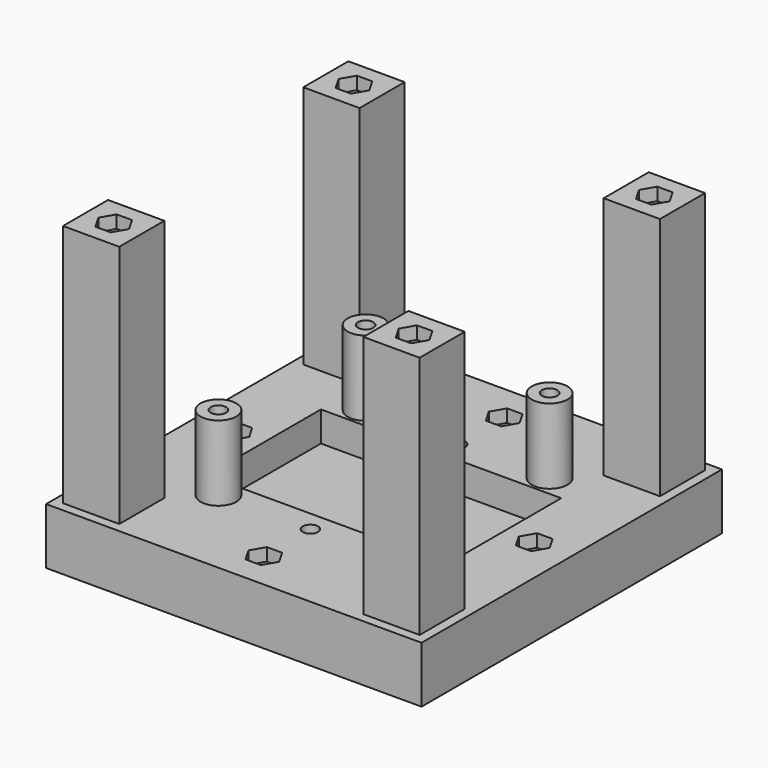
from build123d import *

# Parameters (mm, degrees)
F0_W     = 100
F0_H     = 100
F0_W_2   = 15
F0_H_2   = 15
F0_R     = 4.7625
F0_R_2   = 3.55
F0_W_3   = 64
F0_H_3   = 38
F1_DEPTH = 15
F2_DEPTH = 80
F0_R_3   = 2.05
F3_DEPTH = 76.6
F4_DEPTH = 7
F5_DEPTH = 11.6
F6_DEPTH = 35
F7_START = 4.2
F7_DEPTH = 30.8
F8_START = 4.2
F8_DEPTH = 10.8
F9_DEPTH = 60


with BuildPart() as f1:
    # F0 (on Top) → F1 (new body)
    with BuildSketch(Plane.XY):
        with Locations((-0.0015218393, -0.0144693477)):
            Rectangle(F0_W, F0_H)
        with Locations((-40.0015218393, -40.0144693477)):
            Rectangle(F0_W_2, F0_H_2, mode=Mode.SUBTRACT)
        with Locations((-24.5015218393, -24.5144693477)):
            Circle(F0_R, mode=Mode.SUBTRACT)
        Polygon((4.097665072, -40.0144693477), (2.0480716163, -43.5644693477), (-2.0511152949, -43.5644693477), (-4.1007087505, -40.0144693477), (-2.0511152949, -36.4644693477), (2.0480716163, -36.4644693477), align=None, mode=Mode.SUBTRACT)
        with Locations((39.9984781607, -40.0144693477)):
            Rectangle(F0_W_2, F0_H_2, mode=Mode.SUBTRACT)
        with Locations((-0.0015218393, -24.5144693477)):
            Circle(F0_R_2, mode=Mode.SUBTRACT)
        with Locations((24.4984781607, -24.5144693477)):
            Circle(F0_R, mode=Mode.SUBTRACT)
        Polygon((-35.902334928, -0.0144693477), (-37.9519283837, -3.5644693477), (-42.0511152949, -3.5644693477), (-44.1007087505, -0.0144693477), (-42.0511152949, 3.5355306523), (-37.9519283837, 3.5355306523), align=None, mode=Mode.SUBTRACT)
        with Locations((-24.5015218393, 24.4855306523)):
            Circle(F0_R, mode=Mode.SUBTRACT)
        with Locations((-40.0015218393, 39.9855306523)):
            Rectangle(F0_W_2, F0_H_2, mode=Mode.SUBTRACT)
        Polygon((4.097665072, 39.9855306523), (2.0480716163, 36.4355306523), (-2.0511152949, 36.4355306523), (-4.1007087505, 39.9855306523), (-2.0511152949, 43.5355306523), (2.0480716163, 43.5355306523), align=None, mode=Mode.SUBTRACT)
        with Locations((-0.0015218393, -0.0144693477)):
            Rectangle(F0_W_3, F0_H_3, mode=Mode.SUBTRACT)
        with Locations((-0.0015218393, 24.4855306523)):
            Circle(F0_R_2, mode=Mode.SUBTRACT)
        with Locations((24.4984781607, 24.4855306523)):
            Circle(F0_R, mode=Mode.SUBTRACT)
        Polygon((42.0480716163, -3.5644693477), (37.9488847051, -3.5644693477), (35.8992912495, -0.0144693477), (37.9488847051, 3.5355306523), (42.0480716163, 3.5355306523), (44.097665072, -0.0144693477), align=None, mode=Mode.SUBTRACT)
        with Locations((39.9984781607, 39.9855306523)):
            Rectangle(F0_W_2, F0_H_2, mode=Mode.SUBTRACT)
    extrude(amount=F1_DEPTH)

    # F0 (on Top) → F2 (join)
    with BuildSketch(Plane.XY):
        with Locations((-40.0015218393, -40.0144693477)):
            Rectangle(F0_W_2, F0_H_2)
        Polygon((-35.902334928, -40.0144693477), (-37.9519283837, -43.5644693477), (-42.0511152949, -43.5644693477), (-44.1007087505, -40.0144693477), (-42.0511152949, -36.4644693477), (-37.9519283837, -36.4644693477), align=None, mode=Mode.SUBTRACT)
        with Locations((39.9984781607, -40.0144693477)):
            Rectangle(F0_W_2, F0_H_2)
        Polygon((44.097665072, -40.0144693477), (42.0480716163, -43.5644693477), (37.9488847051, -43.5644693477), (35.8992912495, -40.0144693477), (37.9488847051, -36.4644693477), (42.0480716163, -36.4644693477), align=None, mode=Mode.SUBTRACT)
        with Locations((-40.0015218393, 39.9855306523)):
            Rectangle(F0_W_2, F0_H_2)
        Polygon((-42.0511152949, 43.5355306523), (-37.9519283837, 43.5355306523), (-35.902334928, 39.9855306523), (-37.9519283837, 36.4355306523), (-42.0511152949, 36.4355306523), (-44.1007087505, 39.9855306523), align=None, mode=Mode.SUBTRACT)
        with Locations((39.9984781607, 39.9855306523)):
            Rectangle(F0_W_2, F0_H_2)
        Polygon((42.0480716163, 36.4355306523), (37.9488847051, 36.4355306523), (35.8992912495, 39.9855306523), (37.9488847051, 43.5355306523), (42.0480716163, 43.5355306523), (44.097665072, 39.9855306523), align=None, mode=Mode.SUBTRACT)
    extrude(amount=F2_DEPTH)

    # F0 (on Top) → F3 (join)
    with BuildSketch(Plane.XY):
        Polygon((-35.902334928, 39.9855306523), (-37.9519283837, 43.5355306523), (-42.0511152949, 43.5355306523), (-44.1007087505, 39.9855306523), (-42.0511152949, 36.4355306523), (-37.9519283837, 36.4355306523), align=None)
        with Locations((-40.0015218393, 39.9855306523)):
            Circle(F0_R_3, mode=Mode.SUBTRACT)
        Polygon((35.8992912495, 39.9855306523), (37.9488847051, 36.4355306523), (42.0480716163, 36.4355306523), (44.097665072, 39.9855306523), (42.0480716163, 43.5355306523), (37.9488847051, 43.5355306523), align=None)
        with Locations((39.9984781607, 39.9855306523)):
            Circle(F0_R_3, mode=Mode.SUBTRACT)
        Polygon((37.9488847051, -43.5644693477), (42.0480716163, -43.5644693477), (44.097665072, -40.0144693477), (42.0480716163, -36.4644693477), (37.9488847051, -36.4644693477), (35.8992912495, -40.0144693477), align=None)
        with Locations((39.9984781607, -40.0144693477)):
            Circle(F0_R_3, mode=Mode.SUBTRACT)
        Polygon((-42.0511152949, -43.5644693477), (-37.9519283837, -43.5644693477), (-35.902334928, -40.0144693477), (-37.9519283837, -36.4644693477), (-42.0511152949, -36.4644693477), (-44.1007087505, -40.0144693477), align=None)
        with Locations((-40.0015218393, -40.0144693477)):
            Circle(F0_R_3, mode=Mode.SUBTRACT)
    extrude(amount=F3_DEPTH)

    # F0 (on Top) → F4 (join)
    with BuildSketch(Plane.XY):
        with Locations((-0.0015218393, -0.0144693477)):
            Rectangle(F0_W_3, F0_H_3)
    extrude(amount=F4_DEPTH)

    # F0 (on Top) → F5 (join)
    with BuildSketch(Plane.XY):
        Polygon((-42.0511152949, -3.5644693477), (-37.9519283837, -3.5644693477), (-35.902334928, -0.0144693477), (-37.9519283837, 3.5355306523), (-42.0511152949, 3.5355306523), (-44.1007087505, -0.0144693477), align=None)
        with Locations((-40.0015218393, -0.0144693477)):
            Circle(F0_R_3, mode=Mode.SUBTRACT)
        Polygon((-2.0511152949, -43.5644693477), (2.0480716163, -43.5644693477), (4.097665072, -40.0144693477), (2.0480716163, -36.4644693477), (-2.0511152949, -36.4644693477), (-4.1007087505, -40.0144693477), align=None)
        with Locations((-0.0015218393, -40.0144693477)):
            Circle(F0_R_3, mode=Mode.SUBTRACT)
        Polygon((35.8992912495, -0.0144693477), (37.9488847051, -3.5644693477), (42.0480716163, -3.5644693477), (44.097665072, -0.0144693477), (42.0480716163, 3.5355306523), (37.9488847051, 3.5355306523), align=None)
        with Locations((39.9984781607, -0.0144693477)):
            Circle(F0_R_3, mode=Mode.SUBTRACT)
        Polygon((-2.0511152949, 36.4355306523), (2.0480716163, 36.4355306523), (4.097665072, 39.9855306523), (2.0480716163, 43.5355306523), (-2.0511152949, 43.5355306523), (-4.1007087505, 39.9855306523), align=None)
        with Locations((-0.0015218393, 39.9855306523)):
            Circle(F0_R_3, mode=Mode.SUBTRACT)
    extrude(amount=F5_DEPTH)

    # F0 (on Top) → F6 (join)
    with BuildSketch(Plane.XY):
        with Locations((-24.5015218393, 24.4855306523)):
            Circle(F0_R)
        with Locations((-24.5015218393, 24.4855306523)):
            Circle(F0_R_2, mode=Mode.SUBTRACT)
        with Locations((24.4984781607, 24.4855306523)):
            Circle(F0_R)
        with Locations((24.4984781607, 24.4855306523)):
            Circle(F0_R_2, mode=Mode.SUBTRACT)
        with Locations((24.4984781607, -24.5144693477)):
            Circle(F0_R)
        with Locations((24.4984781607, -24.5144693477)):
            Circle(F0_R_2, mode=Mode.SUBTRACT)
        with Locations((-24.5015218393, -24.5144693477)):
            Circle(F0_R)
        with Locations((-24.5015218393, -24.5144693477)):
            Circle(F0_R_2, mode=Mode.SUBTRACT)
    extrude(amount=F6_DEPTH)

    # F0 (on Top) → F7 (join)
    with BuildSketch(Plane.XY.offset(F7_START)):
        with Locations((-24.5015218393, 24.4855306523)):
            Circle(F0_R_2)
        with Locations((-24.5015218393, 24.4855306523)):
            Circle(F0_R_3, mode=Mode.SUBTRACT)
        with Locations((24.4984781607, 24.4855306523)):
            Circle(F0_R_2)
        with Locations((24.4984781607, 24.4855306523)):
            Circle(F0_R_3, mode=Mode.SUBTRACT)
        with Locations((24.4984781607, -24.5144693477)):
            Circle(F0_R_2)
        with Locations((24.4984781607, -24.5144693477)):
            Circle(F0_R_3, mode=Mode.SUBTRACT)
        with Locations((-24.5015218393, -24.5144693477)):
            Circle(F0_R_2)
        with Locations((-24.5015218393, -24.5144693477)):
            Circle(F0_R_3, mode=Mode.SUBTRACT)
    extrude(amount=F7_DEPTH)

    # F0 (on Top) → F8 (join)
    with BuildSketch(Plane.XY.offset(F8_START)):
        with Locations((-0.0015218393, -24.5144693477)):
            Circle(F0_R_2)
        with Locations((-0.0015218393, -24.5144693477)):
            Circle(F0_R_3, mode=Mode.SUBTRACT)
        with Locations((-0.0015218393, 24.4855306523)):
            Circle(F0_R_2)
        with Locations((-0.0015218393, 24.4855306523)):
            Circle(F0_R_3, mode=Mode.SUBTRACT)
    extrude(amount=F8_DEPTH)

    # F0 (on Top) → F9 (join)
    with BuildSketch(Plane.XY):
        with Locations((-40.0015218393, 39.9855306523)):
            Circle(F0_R_3)
        with Locations((39.9984781607, 39.9855306523)):
            Circle(F0_R_3)
        with Locations((39.9984781607, -40.0144693477)):
            Circle(F0_R_3)
        with Locations((-40.0015218393, -40.0144693477)):
            Circle(F0_R_3)
    extrude(amount=F9_DEPTH)


solid = f1.part
